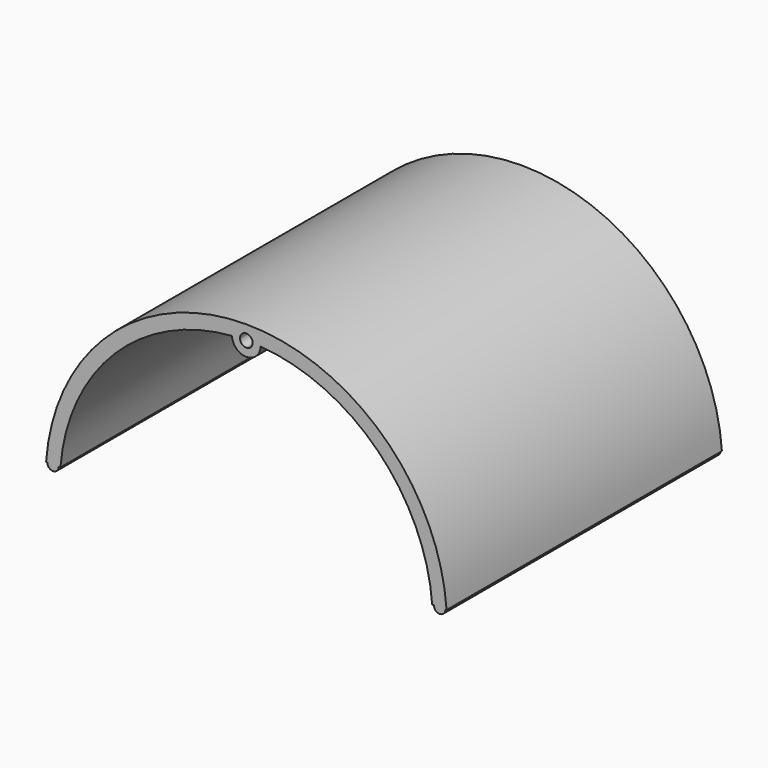
from build123d import *

# Parameters (mm, degrees)
F0_R     = 88.9
F1_DEPTH = 152.4
F4_DEPTH = 152.401
F5_DEPTH = 152.401
F7_DEPTH = 152.401


with BuildPart() as f1:
    # F0 (on Front) → F1 (new body)
    with BuildSketch(Plane.XZ):
        Circle(F0_R)
    extrude(amount=-F1_DEPTH)

    # F3 (on face) → F4 (cut, through all)
    with BuildSketch(Plane.XZ):
        with BuildLine():
            ThreePointArc((6.3453015162, 82.3057692308), (0, 76.2), (-6.3453015162, 82.3057692308))
            ThreePointArc((-6.3453015162, 82.3057692308), (-58.3716647869, 58.3716647869), (-82.3057692308, 6.3453015162))
            ThreePointArc((-82.3057692308, 6.3453015162), (-77.974338005, 4.4029328075), (-76.2, 0))
            ThreePointArc((-76.2, 0), (-77.974338005, -4.4029328075), (-82.3057692308, -6.3453015162))
            ThreePointArc((-82.3057692308, -6.3453015162), (-58.3716647869, -58.3716647869), (-6.3453015162, -82.3057692308))
            ThreePointArc((-6.3453015162, -82.3057692308), (0, -76.2), (6.3453015162, -82.3057692308))
            ThreePointArc((6.3453015162, -82.3057692308), (58.3716647869, -58.3716647869), (82.3057692308, -6.3453015162))
            ThreePointArc((82.3057692308, -6.3453015162), (76.2, 0), (82.3057692308, 6.3453015162))
            ThreePointArc((82.3057692308, 6.3453015162), (58.3716647869, 58.3716647869), (6.3453015162, 82.3057692308))
        make_face()
    extrude(amount=-F4_DEPTH, mode=Mode.SUBTRACT)

    # F2 (on face) → F5 (cut, through all)
    with BuildSketch(Plane.XZ):
        with BuildLine():
            ThreePointArc((-2.7935998838, 82.5027169231), (-1.9588679235, 80.5576966952), (0, 79.756))
            ThreePointArc((0, 79.756), (1.9588679235, 80.5576966952), (2.7935998838, 82.5027169231))
            ThreePointArc((2.7935998838, 82.5027169231), (2.7938999692, 82.5263576151), (2.794, 82.55))
            ThreePointArc((2.794, 82.55), (-0.0236423849, 85.3438999692), (-2.7935998838, 82.5027169231))
        make_face()
        with BuildLine():
            ThreePointArc((-82.5027169231, 2.7935998838), (-85.344, 0), (-82.5027169231, -2.7935998838))
            ThreePointArc((-82.5027169231, -2.7935998838), (-80.5576966952, -1.9588679235), (-79.756, 0))
            ThreePointArc((-79.756, 0), (-80.5576966952, 1.9588679235), (-82.5027169231, 2.7935998838))
        make_face()
        with BuildLine():
            ThreePointArc((79.756, 0), (80.5576966952, -1.9588679235), (82.5027169231, -2.7935998838))
            ThreePointArc((82.5027169231, -2.7935998838), (84.5088679235, -1.9923033048), (85.344, 0))
            ThreePointArc((85.344, 0), (84.5088679235, 1.9923033048), (82.5027169231, 2.7935998838))
            ThreePointArc((82.5027169231, 2.7935998838), (80.5576966952, 1.9588679235), (79.756, 0))
        make_face()
        with BuildLine():
            ThreePointArc((2.794, -82.55), (2.7938999692, -82.5263576151), (2.7935998838, -82.5027169231))
            ThreePointArc((2.7935998838, -82.5027169231), (1.9588679235, -80.5576966952), (0, -79.756))
            ThreePointArc((0, -79.756), (-1.9588679235, -80.5576966952), (-2.7935998838, -82.5027169231))
            ThreePointArc((-2.7935998838, -82.5027169231), (-0.0236423849, -85.3438999692), (2.794, -82.55))
        make_face()
    extrude(amount=-F5_DEPTH, mode=Mode.SUBTRACT)

    # F6 (on face) → F7 (cut, through all)
    with BuildSketch(Plane.XZ):
        with BuildLine():
            Line((82.55, 0), (76.2, 0))
            ThreePointArc((76.2, 0), (77.974338005, -4.4029328075), (82.3057692308, -6.3453015162))
            ThreePointArc((82.3057692308, -6.3453015162), (58.3716647869, -58.3716647869), (6.3453015162, -82.3057692308))
            ThreePointArc((6.3453015162, -82.3057692308), (0, -76.2), (-6.3453015162, -82.3057692308))
            ThreePointArc((-6.3453015162, -82.3057692308), (-58.3716647869, -58.3716647869), (-82.3057692308, -6.3453015162))
            ThreePointArc((-82.3057692308, -6.3453015162), (-77.974338005, -4.4029328075), (-76.2, 0))
            Line((-76.2, 0), (-88.9, 0))
            Line((-88.9, 0), (-104.8936669013, -139.8783236514))
            Line((-104.8936669013, -139.8783236514), (114.9751045783, -122.2419444763))
            Line((114.9751045783, -122.2419444763), (88.9, 0))
            Line((88.9, 0), (82.55, 0))
        make_face()
        Polygon((88.9, 6.35), (88.9, 0), (114.9751045783, -122.2419444763), (179.3332546949, -117.0795708895), (106.4055040479, 6.35), align=None)
        with BuildLine():
            ThreePointArc((82.3057692308, 6.3453015162), (77.974338005, 4.4029328075), (76.2, 0))
            Line((76.2, 0), (82.55, 0))
            Line((82.55, 0), (88.9, 0))
            Line((88.9, 0), (88.9, 6.35))
            Line((88.9, 6.35), (88.138, 6.35))
            ThreePointArc((88.138, 6.35), (85.598, 3.81), (83.058, 6.35))
            Line((83.058, 6.35), (82.55, 6.35))
            Line((82.55, 6.35), (82.3054068698, 6.35))
            ThreePointArc((82.3054068698, 6.35), (82.3055880838, 6.3476507607), (82.3057692308, 6.3453015162))
        make_face()
        with BuildLine():
            Line((-88.9, 0), (-76.2, 0))
            ThreePointArc((-76.2, 0), (-77.974338005, 4.4029328075), (-82.3057692308, 6.3453015162))
            ThreePointArc((-82.3057692308, 6.3453015162), (-82.3055880838, 6.3476507607), (-82.3054068698, 6.35))
            Line((-82.3054068698, 6.35), (-82.55, 6.35))
            Line((-82.55, 6.35), (-83.058, 6.35))
            ThreePointArc((-83.058, 6.35), (-85.598, 3.81), (-88.138, 6.35))
            Line((-88.138, 6.35), (-88.9, 6.35))
            Line((-88.9, 6.35), (-88.9, 0))
        make_face()
    extrude(amount=-F7_DEPTH, mode=Mode.SUBTRACT)


solid = f1.part
